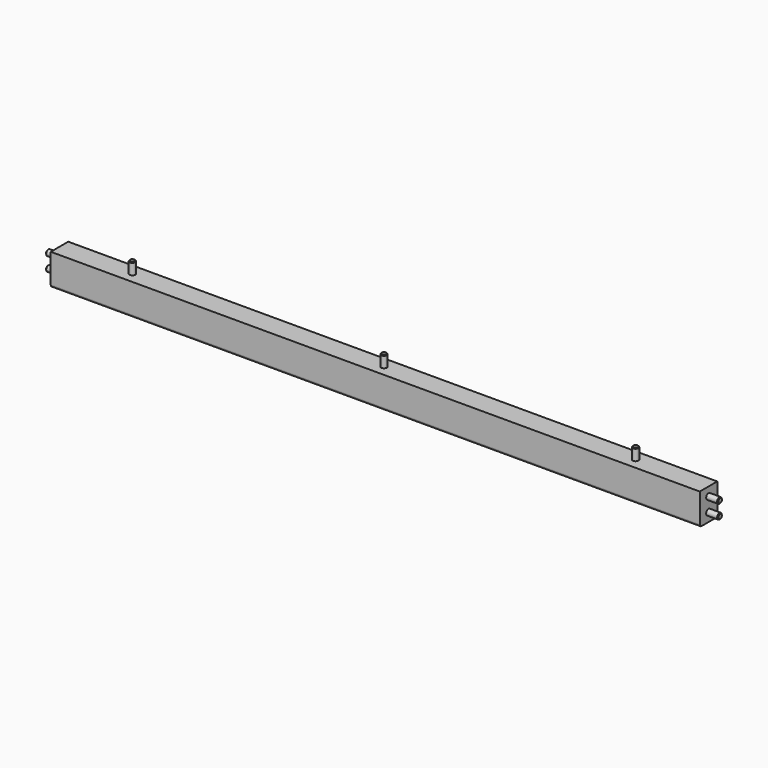
from build123d import *

# Parameters (mm, degrees)
F0_W      = 890
F0_H      = 43
F1_DEPTH  = 30
F2_R      = 4
F3_DEPTH  = 16
F4_SIZE   = 1
F5_R      = 4
F6_DEPTH  = 16
F7_SIZE   = 1
F8_R      = 3
F9_R      = 6
F10_DEPTH = 16
F11_R     = 4
F12_DEPTH = 16
F13_SIZE  = 1


with BuildPart() as f1:
    # F0 (on Front) → F1 (new body)
    with BuildSketch(Plane.XZ):
        Rectangle(F0_W, F0_H)
    extrude(amount=-F1_DEPTH)

    # F2 (on face) → F3 (join)
    with BuildSketch(Plane.YZ.offset(445)):
        with Locations((15, 9.5)):
            Circle(F2_R)
        with Locations((15, -9.5)):
            Circle(F2_R)
    extrude(amount=F3_DEPTH)

    # F4
    f4_edges = [f1.edges().sort_by_distance(p)[0] for p in [
        (461, 11, 9.5),
        (461, 11, -9.5),
    ]]
    chamfer(f4_edges, length=F4_SIZE)

    # F5 (on face) → F6 (join)
    with BuildSketch(Plane(origin=(-445, 0, 0), x_dir=(0, -1, 0), z_dir=(-1, 0, 0))):
        with Locations((-15, 9.5)):
            Circle(F5_R)
        with Locations((-15, -9.5)):
            Circle(F5_R)
    extrude(amount=F6_DEPTH)

    # F7
    f7_edges = [f1.edges().sort_by_distance(p)[0] for p in [
        (-461, 19, 9.5),
        (-461, 19, -9.5),
    ]]
    chamfer(f7_edges, length=F7_SIZE)

    # F8
    f8_edges = [f1.edges().sort_by_distance(p)[0] for p in [
        (0, 30, -21.5),
        (0, 0, -21.5),
    ]]
    fillet(f8_edges, radius=F8_R)

    # F9 (on face) → F10 (cut)
    with BuildSketch(Plane(origin=(0, 0, -21.5), x_dir=(1, 0, 0), z_dir=(0, 0, -1))):
        with Locations((-345, -15)):
            Circle(F9_R)
        with Locations((0, -15)):
            Circle(F9_R)
        with Locations((345, -15)):
            Circle(F9_R)
    extrude(amount=-F10_DEPTH, mode=Mode.SUBTRACT)

    # F11 (on face) → F12 (join)
    with BuildSketch(Plane.XY.offset(21.5)):
        with Locations((0, 15)):
            Circle(F11_R)
        with Locations((-345, 15)):
            Circle(F11_R)
        with Locations((345, 15)):
            Circle(F11_R)
    extrude(amount=F12_DEPTH)

    # F13
    f13_edges = [f1.edges().sort_by_distance(p)[0] for p in [
        (-349, 15, 37.5),
        (-4, 15, 37.5),
        (341, 15, 37.5),
    ]]
    chamfer(f13_edges, length=F13_SIZE)


solid = f1.part
